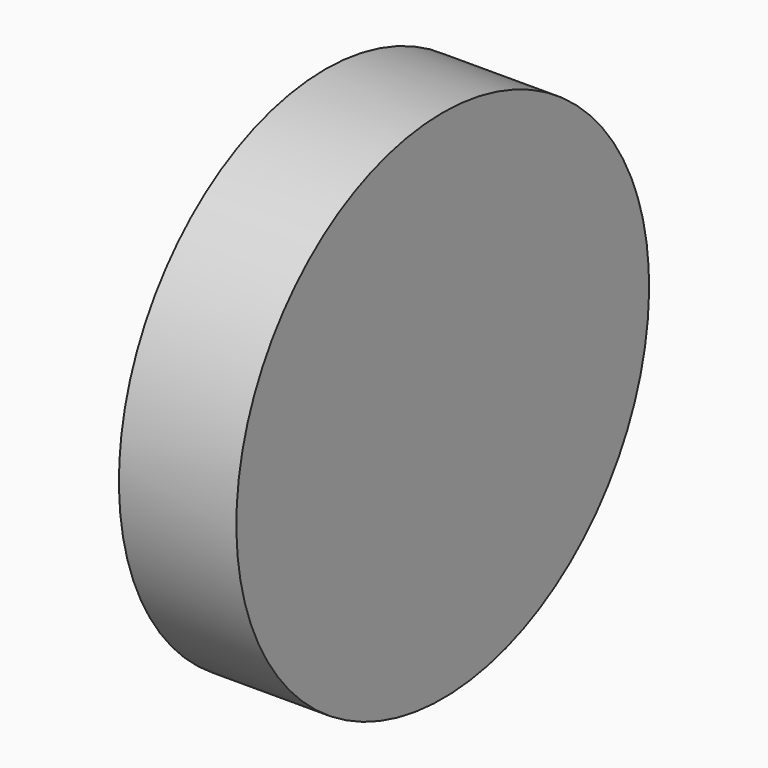
from build123d import *


with BuildPart() as f1:
    # F0 (on Front) → F1 (revolve)
    with BuildSketch(Plane.XZ):
        with BuildLine():
            add(Edge.make_bspline(
                [(-10.972, 26.4565628022), (-10.3015559122, 26.4624551956), (-9.4254614686, 26.0553417029), (-8.2231500026, 25.1009661647), (-8.0658965607, 24.8820760133), (-7.9944550925, 24.7891377658)],
                knots=[0.3661893236, 0.3661893236, 0.3661893236, 0.3661893236, 0.63187276, 0.8763069792, 1, 1, 1, 1], degree=3))
            Line((-7.9944550925, 24.7891377658), (0, 15.100086289))
            Line((0, 15.100086289), (0, 0))
            Line((0, 0), (2, 0))
            Line((2, 0), (2, 28.4951649422))
            Line((2, 28.4951649422), (0, 28.4951649422))
            Line((0, 28.4951649422), (-10.972, 28.4951649422))
            Line((-10.972, 28.4951649422), (-10.972, 26.4565628022))
        make_face()
    revolve(axis=Axis((1, 0, 0), (-1, 0, 0)))


solid = f1.part
